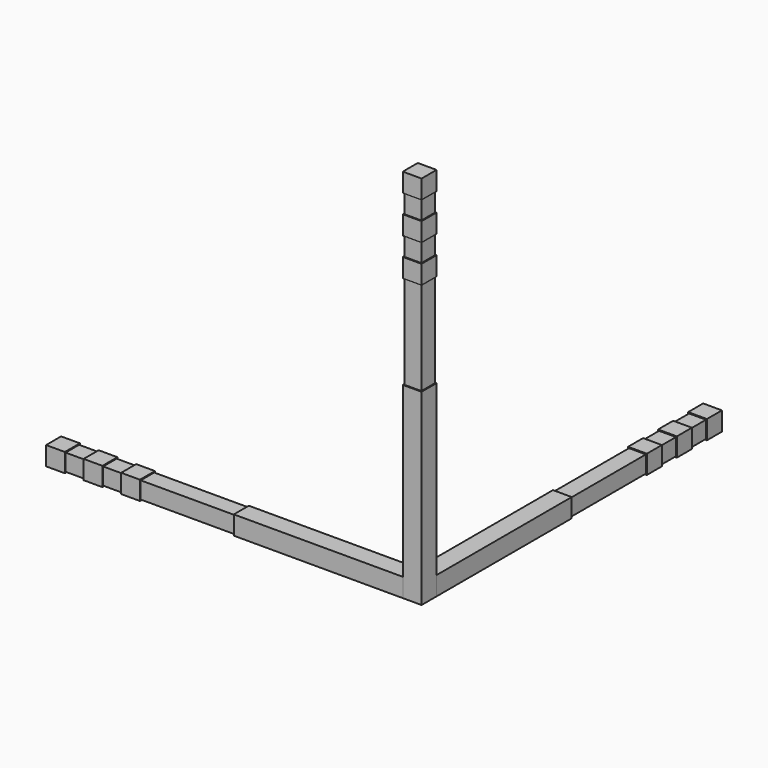
from build123d import *

# Parameters (mm, degrees)
BOX_W        = 10
BOX_H        = 1
BOX_DEPTH    = 1
BOX001_W     = 1
BOX001_H     = 1
BOX001_DEPTH = 1
BOX002_W     = 1
BOX002_H     = 1
BOX002_DEPTH = 1
BOX003_W     = 1
BOX003_H     = 1
BOX003_DEPTH = 1
BOX004_W     = 10
BOX004_H     = 1
BOX004_DEPTH = 1
BOX005_W     = 1
BOX005_H     = 1
BOX005_DEPTH = 1
BOX006_W     = 1
BOX006_H     = 1
BOX006_DEPTH = 1
BOX007_W     = 1
BOX007_H     = 1
BOX007_DEPTH = 1
BOX010_W     = 1
BOX010_H     = 1
BOX010_DEPTH = 1
BOX008_W     = 10
BOX008_H     = 1
BOX008_DEPTH = 1
BOX009_W     = 1
BOX009_H     = 1
BOX009_DEPTH = 1
BOX011_W     = 1
BOX011_H     = 1
BOX011_DEPTH = 1
BOX012_W     = 0.9
BOX012_H     = 0.9
BOX012_DEPTH = 19.9
BOX013_W     = 19.9
BOX013_H     = 0.9
BOX013_DEPTH = 0.9
BOX014_W     = 0.9
BOX014_H     = 19.9
BOX014_DEPTH = 0.9


with BuildPart() as cube:
    # Box → Box (new body)
    with BuildSketch(Plane(origin=(-10, 0, 0), x_dir=(1, 0, 0), z_dir=(0, 0, 1))):
        with Locations((5, 0.5)):
            Rectangle(BOX_W, BOX_H)
    extrude(amount=BOX_DEPTH)


with BuildPart() as cube001:
    # Box001 → Box001 (new body)
    with BuildSketch(Plane(origin=(-16, 0, 0), x_dir=(1, 0, 0), z_dir=(0, 0, 1))):
        with Locations((0.5, 0.5)):
            Rectangle(BOX001_W, BOX001_H)
    extrude(amount=BOX001_DEPTH)


with BuildPart() as cube002:
    # Box002 → Box002 (new body)
    with BuildSketch(Plane(origin=(-18, 0, 0), x_dir=(1, 0, 0), z_dir=(0, 0, 1))):
        with Locations((0.5, 0.5)):
            Rectangle(BOX002_W, BOX002_H)
    extrude(amount=BOX002_DEPTH)


with BuildPart() as cube003:
    # Box003 → Box003 (new body)
    with BuildSketch(Plane(origin=(-20, 0, 0), x_dir=(1, 0, 0), z_dir=(0, 0, 1))):
        with Locations((0.5, 0.5)):
            Rectangle(BOX003_W, BOX003_H)
    extrude(amount=BOX003_DEPTH)


with BuildPart() as cube004:
    # Box004 → Box004 (new body)
    with BuildSketch(Plane(origin=(-1, 10, 0), x_dir=(0, -1, 0), z_dir=(0, 0, 1))):
        with Locations((5, 0.5)):
            Rectangle(BOX004_W, BOX004_H)
    extrude(amount=BOX004_DEPTH)


with BuildPart() as cube005:
    # Box005 → Box005 (new body)
    with BuildSketch(Plane(origin=(-1, 16, 0), x_dir=(0, -1, 0), z_dir=(0, 0, 1))):
        with Locations((0.5, 0.5)):
            Rectangle(BOX005_W, BOX005_H)
    extrude(amount=BOX005_DEPTH)


with BuildPart() as cube006:
    # Box006 → Box006 (new body)
    with BuildSketch(Plane(origin=(-1, 18, 0), x_dir=(0, -1, 0), z_dir=(0, 0, 1))):
        with Locations((0.5, 0.5)):
            Rectangle(BOX006_W, BOX006_H)
    extrude(amount=BOX006_DEPTH)


with BuildPart() as cube007:
    # Box007 → Box007 (new body)
    with BuildSketch(Plane(origin=(-1, 20, 0), x_dir=(0, -1, 0), z_dir=(0, 0, 1))):
        with Locations((0.5, 0.5)):
            Rectangle(BOX007_W, BOX007_H)
    extrude(amount=BOX007_DEPTH)


with BuildPart() as cube010:
    # Box010 → Box010 (new body)
    with BuildSketch(Plane(origin=(-1, 0, 18), x_dir=(0, 0, -1), z_dir=(1, 0, 0))):
        with Locations((0.5, 0.5)):
            Rectangle(BOX010_W, BOX010_H)
    extrude(amount=BOX010_DEPTH)


with BuildPart() as cube008:
    # Box008 → Box008 (new body)
    with BuildSketch(Plane(origin=(-1, 0, 10), x_dir=(0, 0, -1), z_dir=(1, 0, 0))):
        with Locations((5, 0.5)):
            Rectangle(BOX008_W, BOX008_H)
    extrude(amount=BOX008_DEPTH)


with BuildPart() as cube009:
    # Box009 → Box009 (new body)
    with BuildSketch(Plane(origin=(-1, 0, 16), x_dir=(0, 0, -1), z_dir=(1, 0, 0))):
        with Locations((0.5, 0.5)):
            Rectangle(BOX009_W, BOX009_H)
    extrude(amount=BOX009_DEPTH)


with BuildPart() as cube011:
    # Box011 → Box011 (new body)
    with BuildSketch(Plane(origin=(-1, 0, 20), x_dir=(0, 0, -1), z_dir=(1, 0, 0))):
        with Locations((0.5, 0.5)):
            Rectangle(BOX011_W, BOX011_H)
    extrude(amount=BOX011_DEPTH)


with BuildPart() as cube012:
    # Box012 → Box012 (new body)
    with BuildSketch(Plane(origin=(-0.95, 0.05, 0), x_dir=(1, 0, 0), z_dir=(0, 0, 1))):
        with Locations((0.45, 0.45)):
            Rectangle(BOX012_W, BOX012_H)
    extrude(amount=BOX012_DEPTH)


with BuildPart() as cube013:
    # Box013 → Box013 (new body)
    with BuildSketch(Plane(origin=(-19.95, 0.05, 0.05), x_dir=(1, 0, 0), z_dir=(0, 0, 1))):
        with Locations((9.95, 0.45)):
            Rectangle(BOX013_W, BOX013_H)
    extrude(amount=BOX013_DEPTH)


with BuildPart() as cube014:
    # Box014 → Box014 (new body)
    with BuildSketch(Plane(origin=(-0.95, 0.05, 0.05), x_dir=(1, 0, 0), z_dir=(0, 0, 1))):
        with Locations((0.45, 9.95)):
            Rectangle(BOX014_W, BOX014_H)
    extrude(amount=BOX014_DEPTH)


solid = Compound([cube.part, cube001.part, cube002.part, cube003.part, cube004.part, cube005.part, cube006.part, cube007.part, cube010.part, cube008.part, cube009.part, cube011.part, cube012.part, cube013.part, cube014.part])
